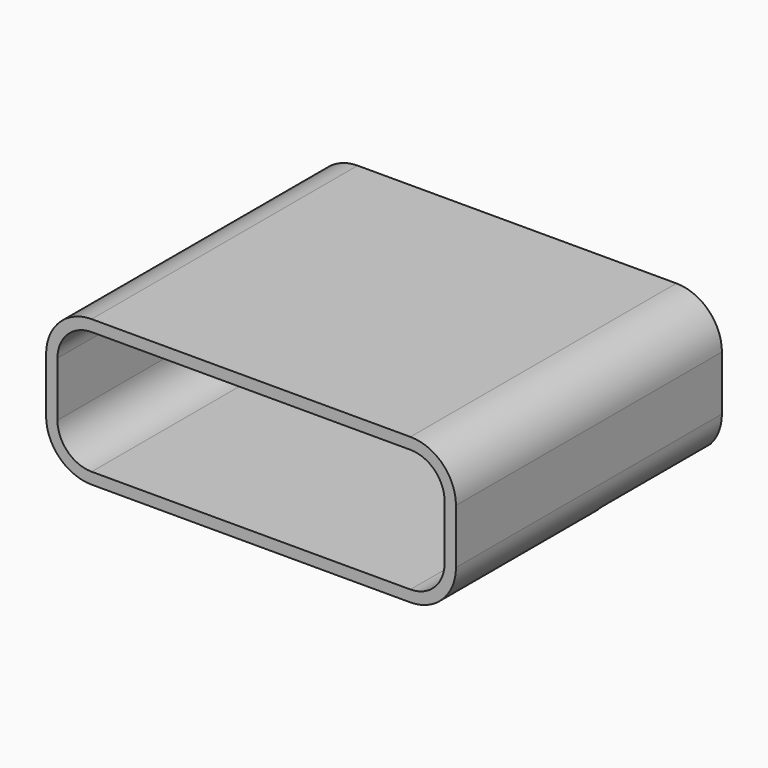
from build123d import *

# Parameters (mm, degrees)
BOX067_W               = 8.5
BOX067_H               = 2.95
BOX067_DEPTH           = 3
FILLET013_R            = 0.75
EXTRUDE016_DEPTH       = 7.3
CUT016_PLACEMENT_ANGLE = 90


with BuildPart() as fillet016:
    # Box067 → Box067 (new body)
    with BuildSketch(Plane(origin=(-4.25, 0, 0), x_dir=(1, 0, 0), z_dir=(0, 0, 1))):
        with Locations((4.25, 1.475)):
            Rectangle(BOX067_W, BOX067_H)
    extrude(amount=BOX067_DEPTH)

    # Fillet013
    fillet013_edges = [fillet016.edges().sort_by_distance(p)[0] for p in [
        (-4.25, 2.95, 1.5),
        (4.25, 2.95, 1.5),
    ]]
    fillet(fillet013_edges, radius=FILLET013_R)


with BuildPart() as shield004:
    # Sketch021 → Extrude016 (new body)
    with BuildSketch(Plane.XY):
        with BuildLine():
            Line((-3.5, 3.2), (3.5, 3.2))
            ThreePointArc((4.5, 2.2), (4.207107, 2.907107), (3.5, 3.2))
            Line((4.5, 2.2), (4.5, 1))
            ThreePointArc((3.5, 0), (4.207107, 0.292893), (4.5, 1))
            Line((-3.5, 0), (3.5, 0))
            ThreePointArc((-4.5, 1), (-4.207107, 0.292893), (-3.5, 0))
            Line((-4.5, 2.2), (-4.5, 1))
            ThreePointArc((-3.5, 3.2), (-4.207107, 2.907107), (-4.5, 2.2))
        make_face()
        with BuildLine():
            Line((-3.5, 2.95), (3.5, 2.95))
            ThreePointArc((4.25, 2.2), (4.03033, 2.73033), (3.5, 2.95))
            Line((4.25, 2.2), (4.25, 1))
            ThreePointArc((3.5, 0.25), (4.03033, 0.46967), (4.25, 1))
            Line((3.5, 0.25), (-3.5, 0.25))
            ThreePointArc((-4.25, 1), (-4.03033, 0.46967), (-3.5, 0.25))
            Line((-4.25, 1), (-4.25, 2.2))
            ThreePointArc((-3.5, 2.95), (-4.03033, 2.73033), (-4.25, 2.2))
        make_face(mode=Mode.SUBTRACT)
    extrude(amount=EXTRUDE016_DEPTH)

    # Cut016: cut Fillet016
    add(fillet016.part, mode=Mode.SUBTRACT)


with BuildPart() as shield004_1:
    # Cut016 placement: moved
    add(shield004.part.rotate(Axis((0, 0, 0), (1, 0, 0)), CUT016_PLACEMENT_ANGLE))


solid = shield004_1.part
